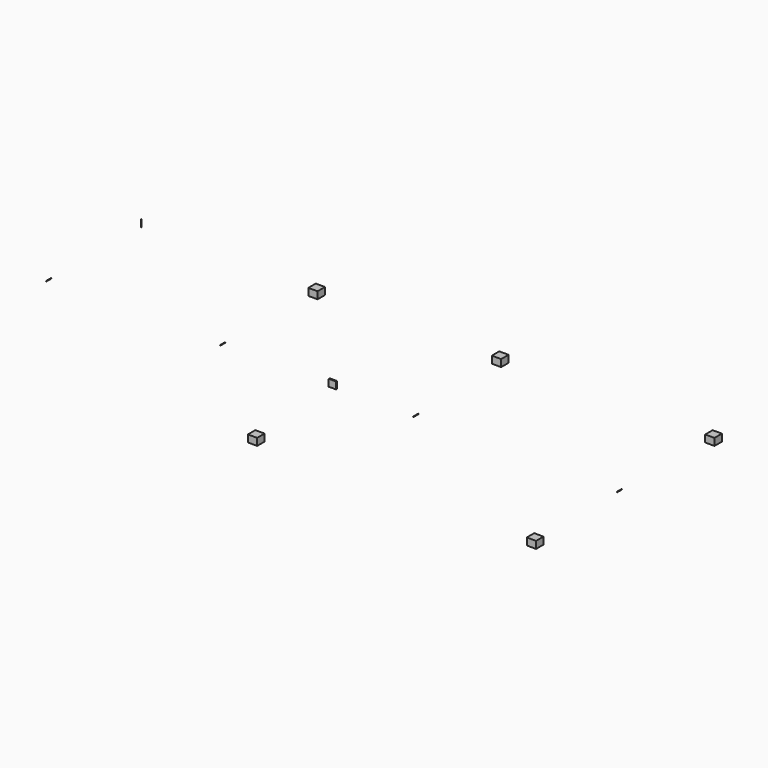
from build123d import *

# Parameters (mm, degrees)
F1_W     = 127.109468
F1_H     = 19.476443
F2_DEPTH = 120.525941
F3_W     = 6.35
F3_H     = 5.556254
F3_W_2   = 160
F3_H_2   = 160
F4_DEPTH = 122.261874
F5_W     = 6.35
F5_H     = 6.35
F6_DEPTH = 107.03823


with BuildPart() as f2:
    # F1 (on Top) → F2 (new body)
    with BuildSketch(Plane.XY):
        with Locations((-63.655466, -43.815508)):
            Rectangle(F1_W, F1_H)
    extrude(amount=F2_DEPTH)


with BuildPart() as f4:
    # F3 (on Top) → F4 (new body)
    with BuildSketch(Plane.XY):
        with Locations((-4996.825, 1997.221873)):
            Rectangle(F3_W, F3_H)
        with Locations((-1913.65, 1920)):
            Rectangle(F3_W_2, F3_H_2)
        with Locations((1246.35, 1920)):
            Rectangle(F3_W_2, F3_H_2)
        with Locations((4920, 1920)):
            Rectangle(F3_W_2, F3_H_2)
        with Locations((4920, -1920)):
            Rectangle(F3_W_2, F3_H_2)
        with Locations((117.999268, -1920)):
            Rectangle(F3_W_2, F3_H_2)
    extrude(amount=F4_DEPTH)


with BuildPart() as f6:
    # F5 (on face) → F6 (new body)
    with BuildSketch(Plane.XZ.offset(53.55373)):
        with Locations((4836.825, 18.415)):
            Rectangle(F5_W, F5_H)
        with Locations((1329.525, 18.415)):
            Rectangle(F5_W, F5_H)
        with Locations((-1996.825, 18.415)):
            Rectangle(F5_W, F5_H)
        with Locations((-4990.475, 18.415)):
            Rectangle(F5_W, F5_H)
    extrude(amount=-F6_DEPTH)


solid = Compound([f2.part, f4.part, f6.part])
